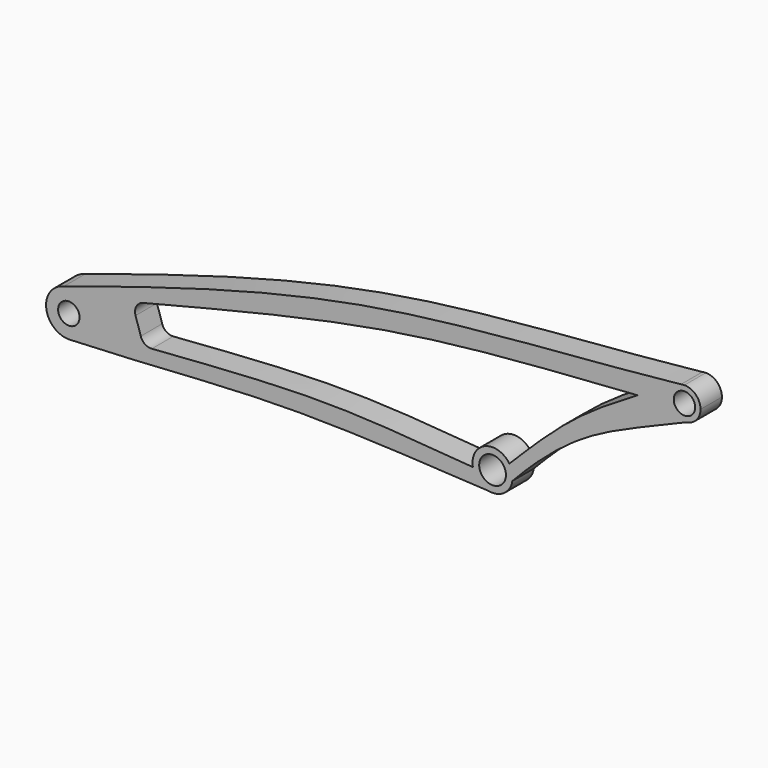
from build123d import *

# Parameters (mm, degrees)
F0_R     = 4
F0_R_2   = 5
F1_DEPTH = 10


with BuildPart() as f1:
    # F0 (on Front) → F1 (new body)
    with BuildSketch(Plane.XZ):
        with BuildLine():
            ThreePointArc((-128.8754135109, -25.0952865806), (-123.1602737314, -22.4552566283), (-120.8289454463, -16.6073946878))
            ThreePointArc((-120.8289454463, -16.6073946878), (-124.0394968392, -9.9536939557), (-131.2458239011, -8.326357495))
            ThreePointArc((-131.2458239011, -8.326357495), (-137.7452743032, -17.797104136), (-128.8754135109, -25.0952865806))
        make_face()
        with Locations((-129.3289454463, -16.6073946878)):
            Circle(F0_R, mode=Mode.SUBTRACT)
        with BuildLine():
            ThreePointArc((-131.2458239011, -8.326357495), (-124.0394968392, -9.9536939557), (-120.8289454463, -16.6073946878))
            ThreePointArc((-120.8289454463, -16.6073946878), (-123.1602737314, -22.4552566283), (-128.8754135109, -25.0952865806))
            add(Edge.make_bspline(
                [(27.532273017, -23.963665398), (1.5839289913, -22.6401279773), (-50.8745236246, -19.0093143919), (-102.6400941915, -24.2784335073), (-128.8754135109, -25.0952865806)],
                knots=[0.0136350591, 0.0136350591, 0.0136350591, 0.0136350591, 0.501767797, 1, 1, 1, 1], degree=3))
            ThreePointArc((27.532273017, -23.963665398), (23.6774268876, -21.8978591269), (21.6302831699, -18.0330697627))
            add(Edge.make_bspline(
                [(21.6302831699, -18.0330697627), (10.6563367579, -17.139313249), (-11.4221872367, -15.3394334373), (-44.3388932106, -14.1423054761), (-78.9588463965, -16.6641001427), (-98.3406285912, -18.1155278421)],
                knots=[0, 0, 0, 0, 0.2993707154, 0.6024154943, 0.9795111889, 0.9795111889, 0.9795111889, 0.9795111889], degree=3))
            ThreePointArc((-98.3406285912, -18.1155278421), (-100.8823299041, -17.4386421951), (-102.4541582861, -15.3296672591))
            Line((-102.4541582861, -15.3296672591), (-104.3954498587, -9.1735058104))
            ThreePointArc((-104.3954498587, -9.1735058104), (-104.0739536016, -6.0220282679), (-101.5614502719, -4.0926507615))
            add(Edge.make_bspline(
                [(83.1727162004, 25.6010051817), (69.0016849645, 24.6252928547), (38.5314258984, 22.5273363348), (-18.4508975965, 16.7813390569), (-72.1336091939, 3.3504452865), (-101.5614502719, -4.0926507615)],
                knots=[0, 0, 0, 0, 0.2783902325, 0.5985889357, 0.9821534138, 0.9821534138, 0.9821534138, 0.9821534138], degree=3))
            add(Edge.make_bspline(
                [(83.1727162004, 25.6010051817), (75.1220807527, 20.7720126759), (58.4321749927, 10.7605519796), (43.1575612073, -4.5557382523), (35.2562556315, -12.4808577154)],
                knots=[0, 0, 0, 0, 0.4823562569, 1, 1, 1, 1], degree=3))
            ThreePointArc((35.2562556315, -12.4808577154), (36.1775577554, -14.4533773309), (36.4935331712, -16.6073946878))
            ThreePointArc((36.4935331712, -16.6073946878), (36.4703721297, -17.1963591935), (36.4010320542, -17.7816860907))
            add(Edge.make_bspline(
                [(101.4293835288, 22.6709745548), (88.6185616779, 17.0455138174), (63.643555199, 8.2531548454), (45.1957048246, -8.4800882278), (36.4010320542, -17.7816860907)],
                knots=[0, 0, 0, 0, 0.5101460468, 1, 1, 1, 1], degree=3))
            ThreePointArc((101.4293835288, 22.6709745548), (94.7660609505, 27.5957675413), (99.3758214052, 34.4807920361))
            add(Edge.make_bspline(
                [(99.3758214052, 34.4807920361), (60.2046354861, 30.2118651857), (-18.683100471, 27.1404553476), (-93.822170127, 3.870933866), (-131.2458239011, -8.326357495)],
                knots=[0.0054898353, 0.0054898353, 0.0054898353, 0.0054898353, 0.5011367949, 1, 1, 1, 1], degree=3))
        make_face()
        with BuildLine():
            add(Edge.make_bspline(
                [(100.6773584463, 34.6236595183), (100.2435315443, 34.5756940781), (99.8096853764, 34.5280750966), (99.3758214052, 34.4807920361)],
                knots=[0, 0, 0, 0, 0.0054898353, 0.0054898353, 0.0054898353, 0.0054898353], degree=3))
            ThreePointArc((99.3758214052, 34.4807920361), (94.7660609505, 27.5957675413), (101.4293835288, 22.6709745548))
            ThreePointArc((101.4293835288, 22.6709745548), (105.1780334232, 24.6557980348), (106.6773584463, 28.6236595183))
            ThreePointArc((106.6773584463, 28.6236595183), (104.9199991334, 32.8663002054), (100.6773584463, 34.6236595183))
        make_face()
        with Locations((100.6773584463, 28.6236595183)):
            Circle(F0_R, mode=Mode.SUBTRACT)
        with BuildLine():
            ThreePointArc((100.6773584463, 34.6236595183), (100.0226810855, 34.5878357023), (99.3758214052, 34.4807920361))
            add(Edge.make_bspline(
                [(100.6773584463, 34.6236595183), (100.2435315443, 34.5756940781), (99.8096853764, 34.5280750966), (99.3758214052, 34.4807920361)],
                knots=[0, 0, 0, 0, 0.0054898353, 0.0054898353, 0.0054898353, 0.0054898353], degree=3))
        make_face()
        with BuildLine():
            add(Edge.make_bspline(
                [(29.7066930366, -24.0734112299), (28.9818986202, -24.0372371146), (28.2570906247, -24.000635897), (27.532273017, -23.963665398)],
                knots=[0, 0, 0, 0, 0.0136350591, 0.0136350591, 0.0136350591, 0.0136350591], degree=3))
            ThreePointArc((27.532273017, -23.963665398), (28.6154795408, -24.0978603244), (29.7066930366, -24.0734112299))
        make_face()
        with BuildLine():
            ThreePointArc((21.6302831699, -18.0330697627), (23.6774268876, -21.8978591269), (27.532273017, -23.963665398))
            add(Edge.make_bspline(
                [(29.7066930366, -24.0734112299), (28.9818986202, -24.0372371146), (28.2570906247, -24.000635897), (27.532273017, -23.963665398)],
                knots=[0, 0, 0, 0, 0.0136350591, 0.0136350591, 0.0136350591, 0.0136350591], degree=3))
            ThreePointArc((29.7066930366, -24.0734112299), (34.1299449473, -22.0724906675), (36.4010320542, -17.7816860907))
            ThreePointArc((36.4010320542, -17.7816860907), (36.4703721297, -17.1963591935), (36.4935331712, -16.6073946878))
            ThreePointArc((36.4935331712, -16.6073946878), (36.1775577554, -14.4533773309), (35.2562556315, -12.4808577154))
            ThreePointArc((35.2562556315, -12.4808577154), (26.1634174718, -9.6618605019), (21.6302831699, -18.0330697627))
        make_face()
        with Locations((28.9935331712, -16.6073946878)):
            Circle(F0_R_2, mode=Mode.SUBTRACT)
    extrude(amount=F1_DEPTH)


solid = f1.part
